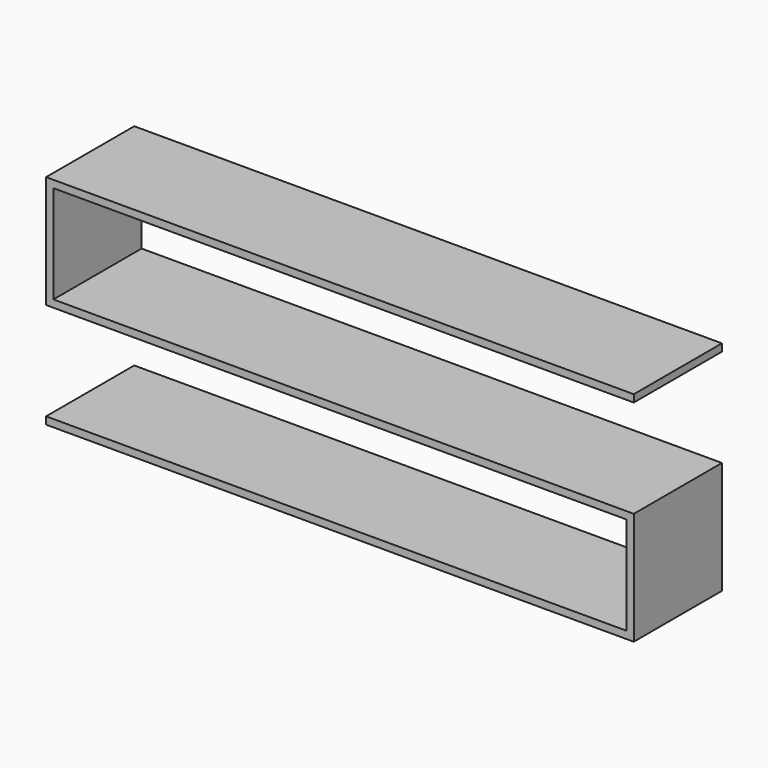
from build123d import *

# Parameters (mm, degrees)
F0_W     = 1524
F0_H     = 285.75
F1_DEPTH = 19.05
F2_W     = 19.05
F2_H     = 285.75
F3_DEPTH = 254
F4_W     = 1504.95
F4_H     = 285.75
F4_W_2   = 19.05
F5_DEPTH = 19.05
F6_W     = 19.05
F6_H     = 285.75
F7_DEPTH = 254
F8_W     = 1504.95
F8_H     = 285.75
F8_W_2   = 19.05
F9_DEPTH = 19.05


with BuildPart() as f1:
    # F0 (on Top) → F1 (new body)
    with BuildSketch(Plane.XY):
        with Locations((186.574653, -79.114271)):
            Rectangle(F0_W, F0_H)
    extrude(amount=F1_DEPTH)

    # F2 (on face) → F3 (join)
    with BuildSketch(Plane(origin=(0, 0, 0), x_dir=(1, 0, 0), z_dir=(0, 0, -1))):
        with Locations((-565.900347, 79.114271)):
            Rectangle(F2_W, F2_H)
    extrude(amount=F3_DEPTH)

    # F4 (on face) → F5 (join)
    with BuildSketch(Plane(origin=(0, 0, -254), x_dir=(1, 0, 0), z_dir=(0, 0, -1))):
        with Locations((196.099653, 79.114271)):
            Rectangle(F4_W, F4_H)
        with Locations((-565.900347, 79.114271)):
            Rectangle(F4_W_2, F4_H)
    extrude(amount=F5_DEPTH)

    # F6 (on face) → F7 (join)
    with BuildSketch(Plane(origin=(0, 0, -273.05), x_dir=(1, 0, 0), z_dir=(0, 0, -1))):
        with Locations((939.049653, 79.114271)):
            Rectangle(F6_W, F6_H)
    extrude(amount=F7_DEPTH)

    # F8 (on face) → F9 (join)
    with BuildSketch(Plane(origin=(0, 0, -527.05), x_dir=(1, 0, 0), z_dir=(0, 0, -1))):
        with Locations((177.049653, 79.114271)):
            Rectangle(F8_W, F8_H)
        with Locations((939.049653, 79.114271)):
            Rectangle(F8_W_2, F8_H)
    extrude(amount=F9_DEPTH)


solid = f1.part
